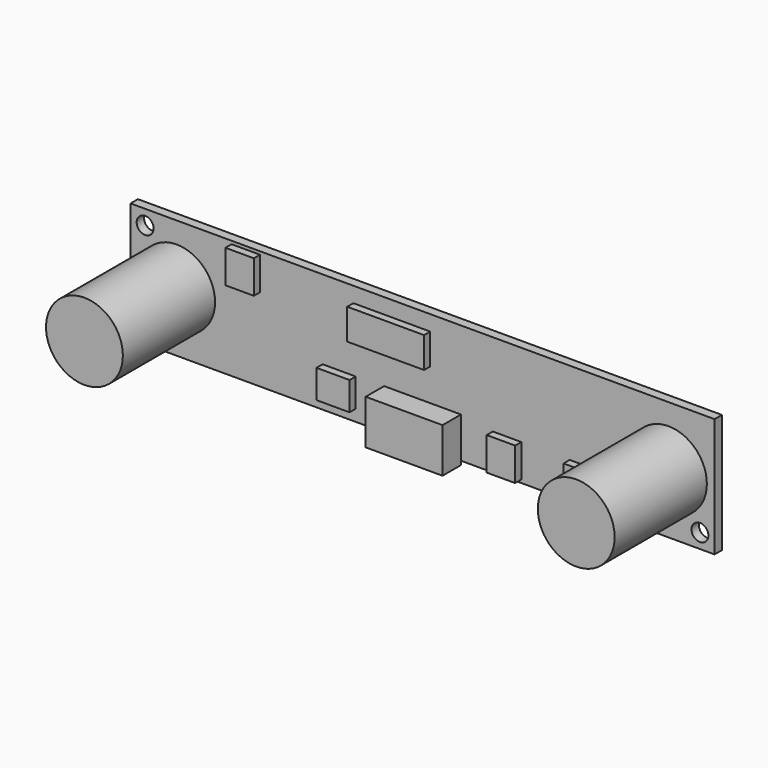
from build123d import *

# Parameters (mm, degrees)
F0_W     = 76
F0_H     = 15.5
F0_R     = 1.1
F1_DEPTH = 1.2
F2_W     = 3.7
F2_H     = 4.3
F2_W_2   = 10
F2_H_2   = 4
F2_W_3   = 4.3
F2_H_3   = 3.7
F4_DEPTH = 1
F3_R     = 5
F5_DEPTH = 15
F6_W     = 10
F6_H     = 5.8
F7_DEPTH = 3


with BuildPart() as f1:
    # F0 (on Front) → F1 (new body)
    with BuildSketch(Plane.XZ):
        Rectangle(F0_W, F0_H)
        with Locations((36.1, -5.85)):
            Circle(F0_R, mode=Mode.SUBTRACT)
        with Locations((-36.1, 5.85)):
            Circle(F0_R, mode=Mode.SUBTRACT)
    extrude(amount=-F1_DEPTH)

    # F2 (on Front) → F4 (join)
    with BuildSketch(Plane.XZ):
        with Locations((11, -5.2)):
            Rectangle(F2_W, F2_H)
        with Locations((-23, 5.2)):
            Rectangle(F2_W, F2_H)
        with Locations((21, -5.2)):
            Rectangle(F2_W, F2_H)
        with Locations((-4, 3.75)):
            Rectangle(F2_W_2, F2_H_2)
        with Locations((-10.85, -4.4)):
            Rectangle(F2_W_3, F2_H_3)
    extrude(amount=F4_DEPTH)

    # F3 (on Front) → F5 (join)
    with BuildSketch(Plane.XZ):
        with Locations((32, 0)):
            Circle(F3_R)
        with Locations((-32, 0)):
            Circle(F3_R)
    extrude(amount=F5_DEPTH)

    # F6 (on Front) → F7 (join)
    with BuildSketch(Plane.XZ):
        with Locations((0, -5.35)):
            Rectangle(F6_W, F6_H)
    extrude(amount=F7_DEPTH)


solid = f1.part
